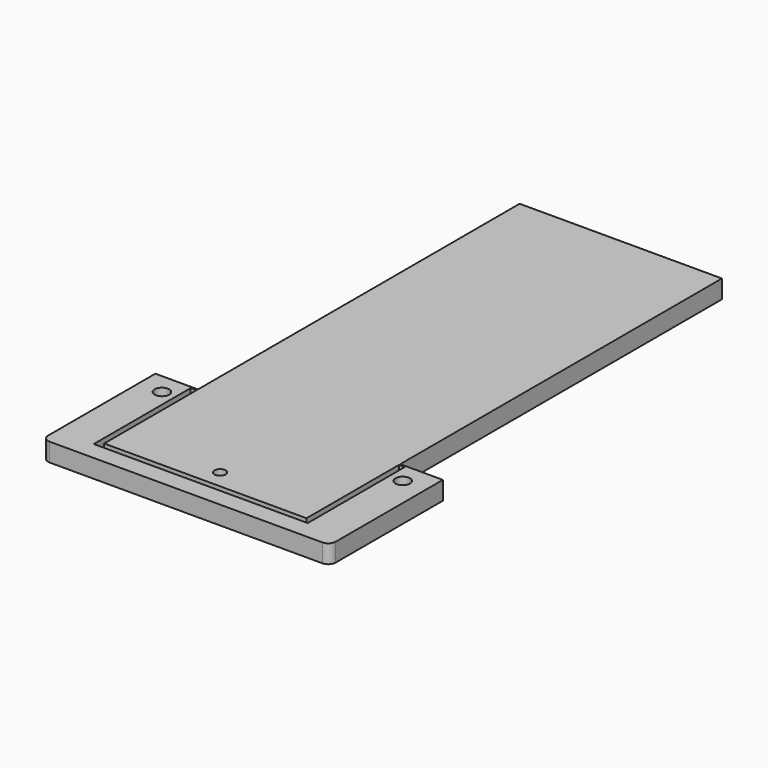
from build123d import *

# Parameters (mm, degrees)
SKETCH_R       = 3.96875
SKETCH_W       = 116.4
SKETCH_H       = 65.9
PAD_DEPTH      = 10
BOX_W          = 110.05
BOX_H          = 282.45
BOX_DEPTH      = 10
CYLINDER_R     = 3.03
CYLINDER_DEPTH = 10


with BuildPart() as part:
    # Sketch → Pad (new body)
    with BuildSketch(Plane.XY):
        with BuildLine():
            Line((78.2, 76.9), (-78.2, 76.9))
            Line((-78.2, 76.9), (-78.2, 4))
            ThreePointArc((-78.2, 4), (-77.028427, 1.171573), (-74.2, 0))
            Line((-74.2, 0), (74.2, 0))
            ThreePointArc((74.2, 0), (77.028427, 1.171573), (78.2, 4))
            Line((78.2, 4), (78.2, 76.9))
        make_face()
        with Locations((-65.5, 65.5)):
            Circle(SKETCH_R, mode=Mode.SUBTRACT)
        with Locations((65.5, 65.5)):
            Circle(SKETCH_R, mode=Mode.SUBTRACT)
        with Locations((0, 42.95)):
            Rectangle(SKETCH_W, SKETCH_H, mode=Mode.SUBTRACT)
    extrude(amount=PAD_DEPTH)

    # Box → Box (join)
    with BuildSketch(Plane(origin=(-55.025, 13.175, 0), x_dir=(1, 0, 0), z_dir=(0, 0, 1))):
        with Locations((55.025, 141.225)):
            Rectangle(BOX_W, BOX_H)
    extrude(amount=BOX_DEPTH)

    # Cylinder → Cylinder (cut)
    with BuildSketch(Plane(origin=(0, 23.175, 0), x_dir=(1, 0, 0), z_dir=(0, 0, 1))):
        Circle(CYLINDER_R)
    extrude(amount=CYLINDER_DEPTH, mode=Mode.SUBTRACT)


solid = part.part
